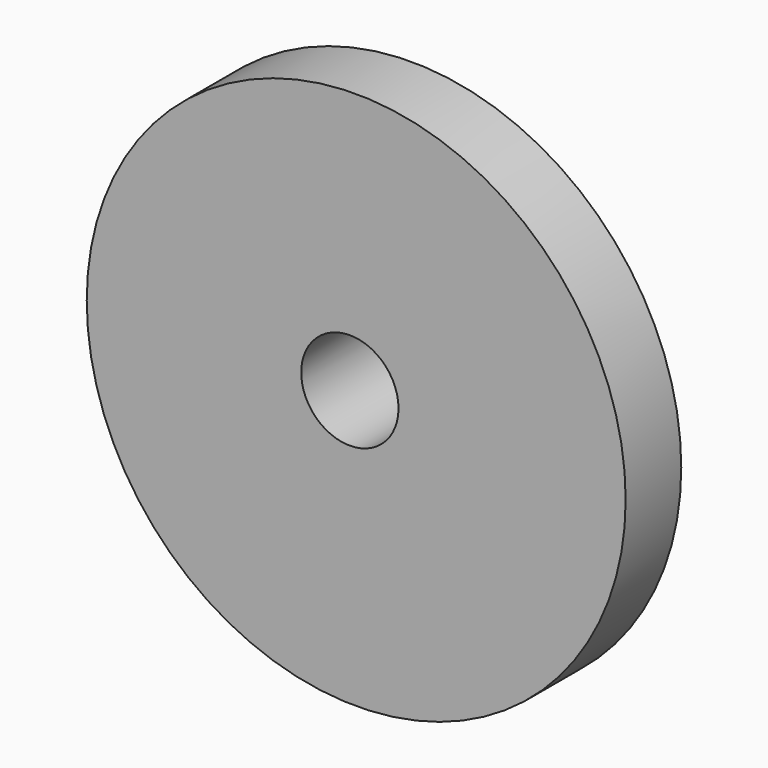
from build123d import *

# Parameters (mm, degrees)
SKETCH021_R             = 38.773757
PAD011_DEPTH            = 10
SKETCH024_R             = 17
PAD012_DEPTH            = 15
SKETCH023_R             = 7
HOLE007_DEPTH           = 33
SKETCH022_R             = 2.75
HOLE008_DEPTH           = 41.347633
HOLE008_TIPS_R          = 2.75
BODY010_PLACEMENT_ANGLE = 90


with BuildPart() as part:
    # Sketch021 → Pad011 (new body)
    with BuildSketch(Plane.XY):
        with Locations((-46.112587, 35.075455)):
            Circle(SKETCH021_R)
    extrude(amount=PAD011_DEPTH)

    # Sketch024 (on Face2 of Pad011) → Pad012 (join)
    with BuildSketch(Plane(origin=(0, 0, 0), x_dir=(1, 0, 0), z_dir=(0, 0, -1))):
        with Locations((-47, -36)):
            Circle(SKETCH024_R)
    extrude(amount=PAD012_DEPTH)

    # Sketch023 (on Face5 of Pad012) → Hole007 (cut)
    with BuildSketch(Plane(origin=(0, 0, -15), x_dir=(1, 0, 0), z_dir=(0, 0, -1))):
        with Locations((-47.024734, -35.997555)):
            Circle(SKETCH023_R)
    extrude(amount=-HOLE007_DEPTH, mode=Mode.SUBTRACT)

    # Sketch022 → Hole008 (cut)
    with BuildSketch(Plane.YZ):
        with Locations((35.974483, -6.968689)):
            Circle(SKETCH022_R)
    extrude(amount=-HOLE008_DEPTH, mode=Mode.SUBTRACT)

    # Hole008 tips → Hole008 tip 1 section 0
    with BuildSketch(Plane.YZ.offset(-41.347633), mode=Mode.PRIVATE) as hole008_tip_1_s0:
        with Locations((35.974483, -6.968689)):
            Circle(HOLE008_TIPS_R)
    loft([hole008_tip_1_s0.sketch, Vertex(-43, 35.974483, -6.968689)], mode=Mode.SUBTRACT)


with BuildPart() as part_1:
    # Body010 placement: moved
    add(part.part.moved(Location((1, -55, -178))).rotate(Axis((1, -55, -178), (1, 0, 0)), BODY010_PLACEMENT_ANGLE))


solid = part_1.part
